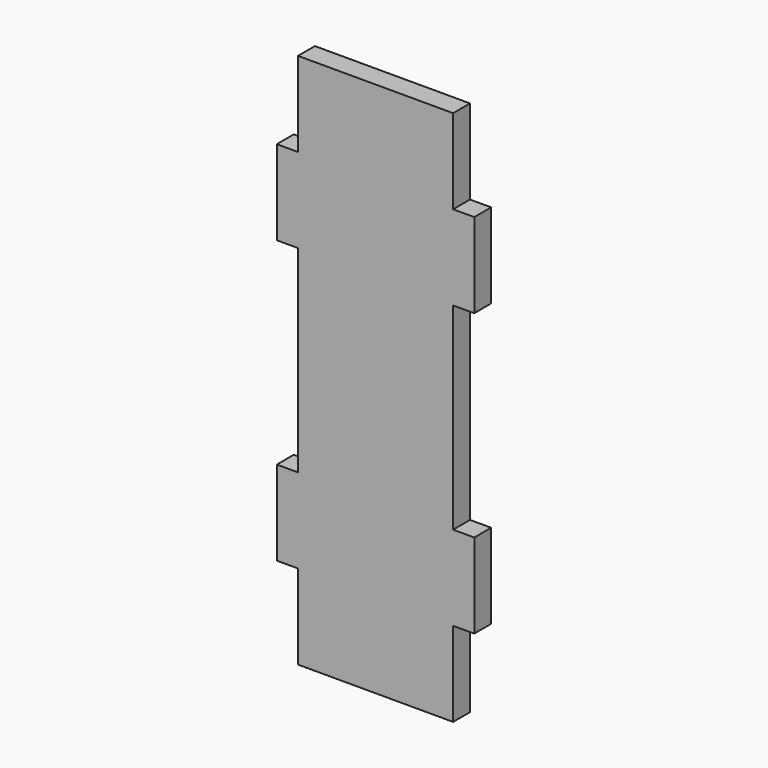
from build123d import *

# Parameters (mm, degrees)
F0_W     = 139.7
F0_H     = 76.2
F0_W_2   = 19.05
F1_DEPTH = 19.05


with BuildPart() as f1:
    # F0 (on Front) → F1 (new body)
    with BuildSketch(Plane.XZ):
        with Locations((0, 209.55)):
            Rectangle(F0_W, F0_H)
        Polygon((69.85, 171.45), (-69.85, 171.45), (-69.85, 95.25), (-69.85, -82.55), (-69.85, -158.75), (69.85, -158.75), (69.85, -82.55), (69.85, 95.25), align=None)
        with Locations((-79.375, 133.35)):
            Rectangle(F0_W_2, F0_H)
        with Locations((79.375, 133.35)):
            Rectangle(F0_W_2, F0_H)
        with Locations((-79.375, -120.65)):
            Rectangle(F0_W_2, F0_H)
        with Locations((79.375, -120.65)):
            Rectangle(F0_W_2, F0_H)
        with Locations((0, -196.85)):
            Rectangle(F0_W, F0_H)
    extrude(amount=F1_DEPTH)


solid = f1.part
